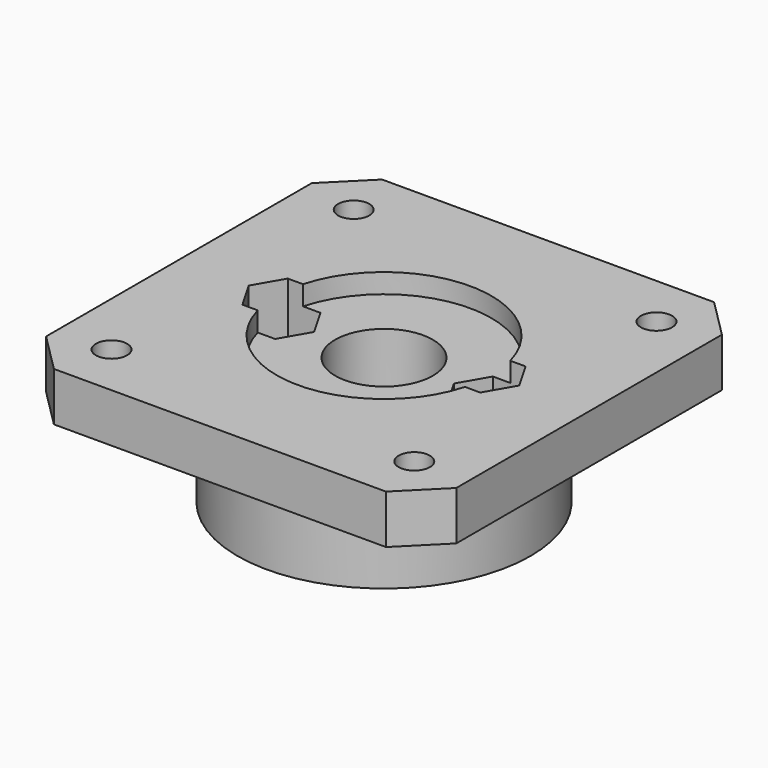
from build123d import *

# Parameters (mm, degrees)
F0_R      = 15
F0_R_2    = 1.6
F0_R_3    = 5
F1_DEPTH  = 5
F2_W      = 42
F2_H      = 42
F2_R      = 1.6
F2_R_2    = 15
F2_R_3    = 5
F3_DEPTH  = 5
F4_SIZE   = 4
F5_R      = 5
F6_DEPTH  = 2
F7_R      = 15
F7_R_2    = 1.6
F7_R_3    = 5
F8_DEPTH  = 5
F9_R      = 1.6
F10_DEPTH = 5
F11_R     = 3.25
F11_R_2   = 1.6
F12_DEPTH = 2.5


with BuildPart() as f1:
    # F0 (on Top) → F1 (new body)
    with BuildSketch(Plane.XY):
        Circle(F0_R)
        with Locations((-10.5, 0)):
            Circle(F0_R_2, mode=Mode.SUBTRACT)
        Circle(F0_R_3, mode=Mode.SUBTRACT)
        with Locations((10.5, 0)):
            Circle(F0_R_2, mode=Mode.SUBTRACT)
    extrude(amount=F1_DEPTH)

    # F2 (on face) → F3 (join)
    with BuildSketch(Plane.XY.offset(5)):
        Rectangle(F2_W, F2_H)
        with Locations((-15.5, -15.5)):
            Circle(F2_R, mode=Mode.SUBTRACT)
        with Locations((15.5, -15.5)):
            Circle(F2_R, mode=Mode.SUBTRACT)
        with Locations((-15.5, 15.5)):
            Circle(F2_R, mode=Mode.SUBTRACT)
        Circle(F2_R_2, mode=Mode.SUBTRACT)
        with Locations((15.5, 15.5)):
            Circle(F2_R, mode=Mode.SUBTRACT)
        Circle(F2_R_2)
        Polygon((-13.8486315613, 0), (-12.1743157806, 2.9), (-8.8256842194, 2.9), (-7.1513684387, 0), (-8.8256842194, -2.9), (-12.1743157806, -2.9), align=None, mode=Mode.SUBTRACT)
        Circle(F2_R_3, mode=Mode.SUBTRACT)
        Polygon((13.8486315613, 0), (12.1743157806, -2.9), (8.8256842194, -2.9), (7.1513684387, 0), (8.8256842194, 2.9), (12.1743157806, 2.9), align=None, mode=Mode.SUBTRACT)
    extrude(amount=F3_DEPTH)

    # F4
    f4_edges = [f1.edges().sort_by_distance(p)[0] for p in [
        (21, 21, 7.5),
        (21, -21, 7.5),
        (-21, -21, 7.5),
        (-21, 21, 7.5),
    ]]
    chamfer(f4_edges, length=F4_SIZE)

    # F5 (on face) → F6 (cut)
    with BuildSketch(Plane.XY.offset(10)):
        with BuildLine():
            Line((8.8256842194, 2.9), (10.6108435103, 2.9))
            ThreePointArc((10.6108435103, 2.9), (0, 11), (-10.6108435103, 2.9))
            Line((-10.6108435103, 2.9), (-8.8256842194, 2.9))
            Line((-8.8256842194, 2.9), (-7.1513684387, 0))
            Line((-7.1513684387, 0), (-8.8256842194, -2.9))
            Line((-8.8256842194, -2.9), (-10.6108435103, -2.9))
            ThreePointArc((-10.6108435103, -2.9), (0, -11), (10.6108435103, -2.9))
            Line((10.6108435103, -2.9), (8.8256842194, -2.9))
            Line((8.8256842194, -2.9), (7.1513684387, 0))
            Line((7.1513684387, 0), (8.8256842194, 2.9))
        make_face()
        Circle(F5_R, mode=Mode.SUBTRACT)
    extrude(amount=-F6_DEPTH, mode=Mode.SUBTRACT)

    # F7 (on face) → F8 (join)
    with BuildSketch(Plane(origin=(0, 0, 0), x_dir=(1, 0, 0), z_dir=(0, 0, -1))):
        Circle(F7_R)
        with Locations((-10.5, 0)):
            Circle(F7_R_2, mode=Mode.SUBTRACT)
        Circle(F7_R_3, mode=Mode.SUBTRACT)
        with Locations((10.5, 0)):
            Circle(F7_R_2, mode=Mode.SUBTRACT)
    extrude(amount=F8_DEPTH)

    # F9 (on face) → F10 (cut)
    with BuildSketch(Plane.XY.offset(5)):
        Polygon((-12.1743157806, 2.9), (-13.8486315613, 0), (-12.1743157806, -2.9), (-8.8256842194, -2.9), (-7.1513684387, 0), (-8.8256842194, 2.9), align=None)
        with Locations((-10.5, 0)):
            Circle(F9_R, mode=Mode.SUBTRACT)
        Polygon((8.8256842194, -2.9), (12.1743157806, -2.9), (13.8486315613, 0), (12.1743157806, 2.9), (8.8256842194, 2.9), (7.1513684387, 0), align=None)
    extrude(amount=-F10_DEPTH, mode=Mode.SUBTRACT)

    # F11 (on face) → F12 (cut)
    with BuildSketch(Plane(origin=(0, 0, 5), x_dir=(1, 0, 0), z_dir=(0, 0, -1))):
        with Locations((15.5, 15.5)):
            Circle(F11_R)
        with Locations((15.5, 15.5)):
            Circle(F11_R_2, mode=Mode.SUBTRACT)
        with Locations((15.5, -15.5)):
            Circle(F11_R)
        with Locations((15.5, -15.5)):
            Circle(F11_R_2, mode=Mode.SUBTRACT)
        with Locations((-15.5, -15.5)):
            Circle(F11_R)
        with Locations((-15.5, -15.5)):
            Circle(F11_R_2, mode=Mode.SUBTRACT)
        with Locations((-15.5, 15.5)):
            Circle(F11_R)
        with Locations((-15.5, 15.5)):
            Circle(F11_R_2, mode=Mode.SUBTRACT)
    extrude(amount=-F12_DEPTH, mode=Mode.SUBTRACT)


solid = f1.part
